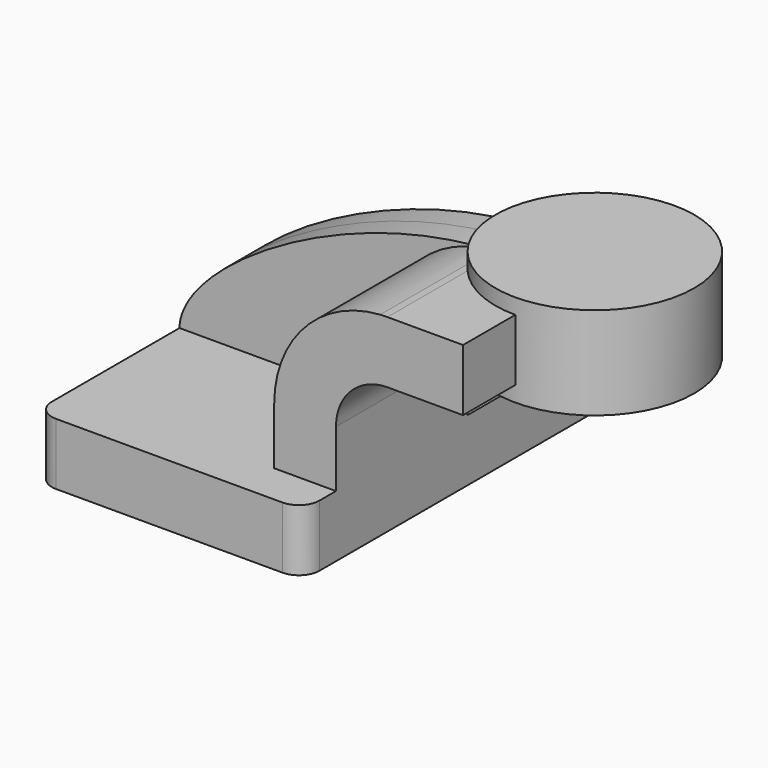
from build123d import *

# Parameters (mm, degrees)
F1_DEPTH = 63.5
F0_W     = 20.1374943917
F0_H     = 19.05
F2_DEPTH = 50.8
F3_DEPTH = 7.9375
F5_R     = 6.35


with BuildPart() as f1:
    # F0 (on Front) → F1 (new body, symmetric)
    with BuildSketch(Plane.XZ):
        Polygon((-41.275, 9.525), (-41.275, -9.525), (41.275, -9.525), (41.275, 9.525), (22.225, 9.525), align=None)
    extrude(amount=F1_DEPTH, both=True)

    # F0 (on Front) → F2 (join)
    with BuildSketch(Plane.XZ):
        with BuildLine():
            Line((22.225, 9.525), (41.275, 9.525))
            Line((41.275, 9.525), (41.275, 27.0002))
            ThreePointArc((41.275, 27.0002), (45.9246798487, 38.2255201513), (57.15, 42.8752))
            Line((57.15, 42.8752), (60.325, 42.8752))
            Line((60.325, 42.8752), (60.325, 61.9252))
            Line((60.325, 61.9252), (57.15, 61.9252))
            add(Edge.make_bspline(
                [(54.9027937698, 61.8528281528), (55.6532384905, 61.8850370345), (56.4023888872, 61.9092238899), (57.15, 61.9252)],
                knots=[109.6972732661, 109.6972732661, 109.6972732661, 109.6972732661, 111.5045361635, 111.5045361635, 111.5045361635, 111.5045361635], degree=3))
            ThreePointArc((54.9027937698, 61.8528281528), (31.6721733404, 50.8881880631), (22.225, 27.0002))
            Line((22.225, 27.0002), (22.225, 9.525))
        make_face()
        with Locations((70.3937471959, 52.4002)):
            Rectangle(F0_W, F0_H)
    extrude(amount=F2_DEPTH)

    # F0 (on Front) → F3 (join, symmetric)
    with BuildSketch(Plane.XZ):
        with BuildLine():
            add(Edge.make_bspline(
                [(-41.275, 9.525), (-40.9668306676, 28.3876541447), (9.352287687, 59.8978129225), (54.9027937698, 61.8528281528)],
                knots=[0, 0, 0, 0, 109.6972732661, 109.6972732661, 109.6972732661, 109.6972732661], degree=3))
            Line((-41.275, 9.525), (22.225, 9.525))
            Line((22.225, 9.525), (22.225, 27.0002))
            ThreePointArc((22.225, 27.0002), (31.6721733404, 50.8881880631), (54.9027937698, 61.8528281528))
        make_face()
    extrude(amount=F3_DEPTH, both=True)

    # F0 (on Front) → F4 (revolve)
    with BuildSketch(Plane.XZ):
        Polygon((80.4624943917, 66.675), (80.4624943917, 61.9252), (80.4624943917, 42.8752), (80.4624943917, 38.1), (111.125, 38.1), (111.125, 66.675), align=None)
    revolve(axis=Axis((80.4624943917, 0, 52.3875), (0, 0, 1)))

    # F5
    f5_edges = [f1.edges().sort_by_distance(p)[0] for p in [
        (41.275, -63.5, 0),
        (-41.275, -63.5, 0),
        (41.275, 63.5, 0),
        (-41.275, 63.5, 0),
    ]]
    fillet(f5_edges, radius=F5_R)


solid = f1.part
